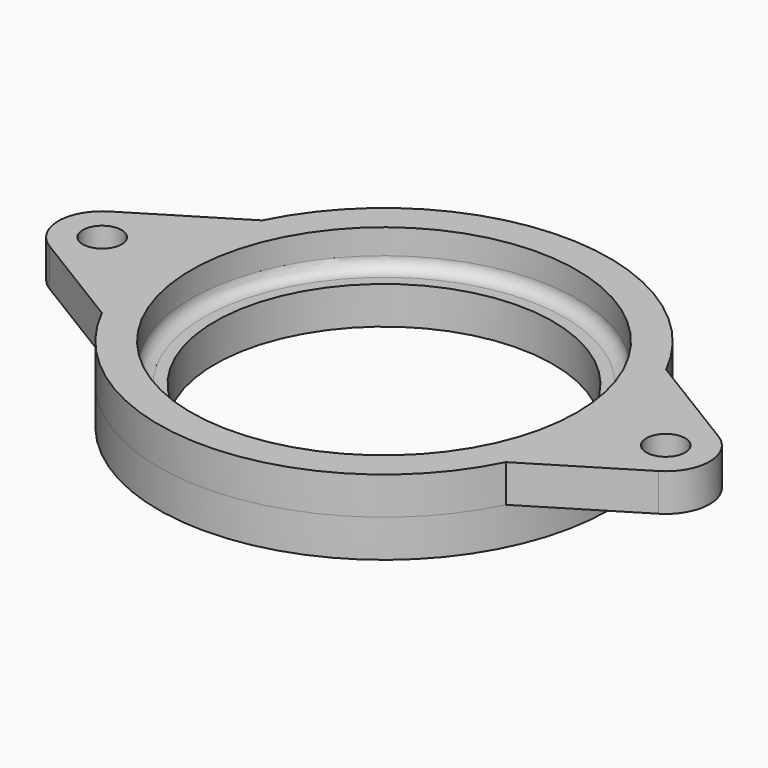
from build123d import *

# Parameters (mm, degrees)
SKETCH_R      = 18
SKETCH_R_2    = 13.5
PAD_DEPTH     = 3
SKETCH001_R   = 15.4
SKETCH001_R_2 = 1.55
PAD001_DEPTH  = 3
FILLET_R      = 1


with BuildPart() as part:
    # Sketch → Pad (new body)
    with BuildSketch(Plane.XY):
        Circle(SKETCH_R)
        Circle(SKETCH_R_2, mode=Mode.SUBTRACT)
    extrude(amount=PAD_DEPTH)

    # Sketch001 (on Face4 of Pad) → Pad001 (join)
    with BuildSketch(Plane.XY.offset(3)):
        with BuildLine():
            ThreePointArc((-16.124515, -8), (0, -18), (16.124515, -8))
            Line((24.325621, -2.986153), (16.124515, -8))
            ThreePointArc((24.325621, -2.986153), (26, 0), (24.325621, 2.986153))
            Line((24.325621, 2.986153), (16.124515, 8))
            ThreePointArc((16.124515, 8), (0, 18), (-16.124515, 8))
            Line((-24.325621, 2.986153), (-16.124515, 8))
            ThreePointArc((-24.325621, 2.986153), (-26, 0), (-24.325621, -2.986153))
            Line((-24.325621, -2.986153), (-16.124515, -8))
        make_face()
        Circle(SKETCH001_R, mode=Mode.SUBTRACT)
        with Locations((-22.5, 0)):
            Circle(SKETCH001_R_2, mode=Mode.SUBTRACT)
        with Locations((22.5, 0)):
            Circle(SKETCH001_R_2, mode=Mode.SUBTRACT)
    extrude(amount=PAD001_DEPTH)

    # Fillet
    fillet_edges = [part.edges().sort_by_distance(p)[0] for p in [
        (-15.4, 0, 3),
    ]]
    fillet(fillet_edges, radius=FILLET_R)


solid = part.part
